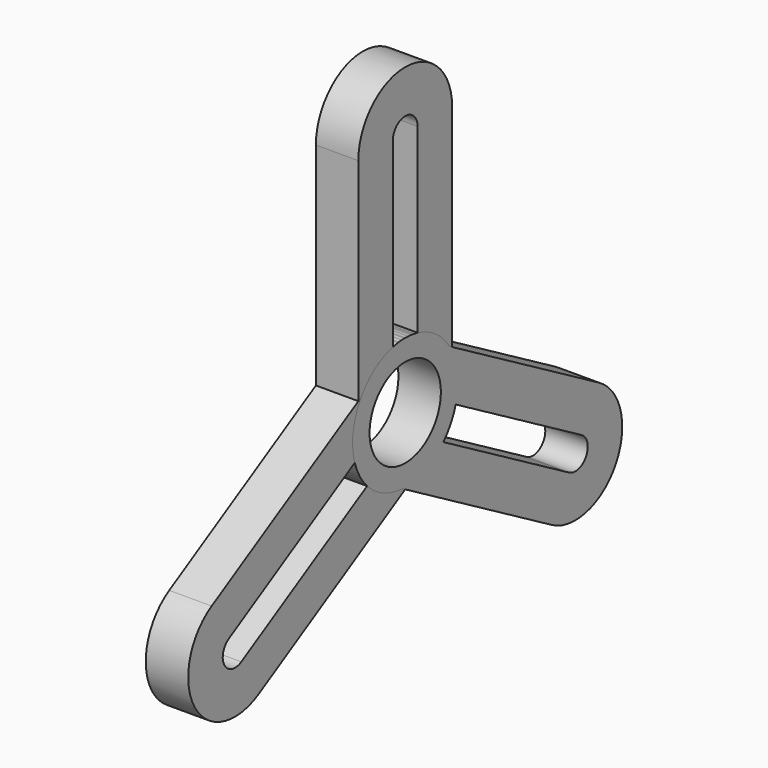
from build123d import *

# Parameters (mm, degrees)
F0_R     = 10.5
F1_DEPTH = 10
F2_COUNT = 3


with BuildPart() as f1:
    # F0 (on Right) → F1 (new body)
    with BuildSketch(Plane.YZ):
        with BuildLine():
            ThreePointArc((3.645637, 15.06517), (9.602664, 12.167122), (13.805637, 7.046588))
            Line((13.805637, 7.046588), (13.805637, 57.846588))
            ThreePointArc((13.805637, 57.846588), (6e-06, 71.652222), (-13.805632, 57.846596))
            Line((-13.805632, 57.846596), (-13.805632, 7.046596))
            ThreePointArc((-13.805632, 7.046596), (-9.602658, 12.167126), (-3.645632, 15.065171))
            Line((-3.645632, 15.065171), (-3.645632, 57.846596))
            ThreePointArc((-3.645632, 57.846596), (6e-06, 61.492222), (3.645637, 57.846588))
            Line((3.645637, 57.846588), (3.645637, 15.06517))
        make_face()
        with BuildLine():
            ThreePointArc((-13.805632, 7.046596), (-3.62372, -15.070456), (15.5, 0))
            ThreePointArc((15.5, 0), (15.070457, 3.623716), (13.805637, 7.046588))
            ThreePointArc((13.805637, 7.046588), (9.602664, 12.167122), (3.645637, 15.06517))
            ThreePointArc((3.645637, 15.06517), (2e-06, 15.5), (-3.645632, 15.065171))
            ThreePointArc((-3.645632, 15.065171), (-9.602658, 12.167126), (-13.805632, 7.046596))
        make_face()
        Circle(F0_R, mode=Mode.SUBTRACT)
    extrude(amount=F1_DEPTH)


with BuildPart() as f2_1:
    # F2: instance of F1
    add(f1.part.rotate(Axis((10, 0, 0), (1, 0, 0)), 1 * 360 / F2_COUNT))


with BuildPart() as f2_2:
    # F2: instance of F1
    add(f1.part.rotate(Axis((10, 0, 0), (1, 0, 0)), 2 * 360 / F2_COUNT))


solid = Compound([f1.part, f2_1.part, f2_2.part])
